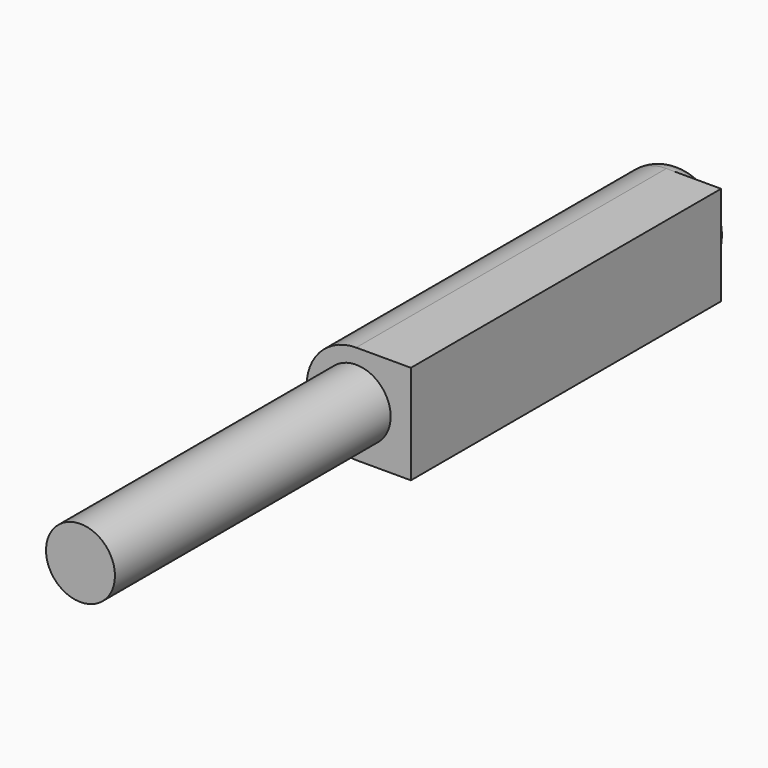
from build123d import *

# Parameters (mm, degrees)
F0_R     = 11.5
F2_DEPTH = 95
F1_R     = 8
F3_DEPTH = 80
F4_R     = 5
F5_W     = 90
F5_H     = 23
F6_DEPTH = 12.7


with BuildPart() as f2:
    # F0 (on Front) → F2 (new body)
    with BuildSketch(Plane.XZ):
        Circle(F0_R)
    extrude(amount=-F2_DEPTH)

    # F1 (on Front) → F3 (join)
    with BuildSketch(Plane.XZ):
        Circle(F1_R)
    extrude(amount=F3_DEPTH)

    # F4
    f4_edges = [f2.edges().sort_by_distance(p)[0] for p in [
        (-11.5, 95, 0),
    ]]
    fillet(f4_edges, radius=F4_R)

    # F5 (on Right) → F6 (join)
    with BuildSketch(Plane.YZ):
        with Locations((45, 0)):
            Rectangle(F5_W, F5_H)
    extrude(amount=F6_DEPTH)


solid = f2.part
